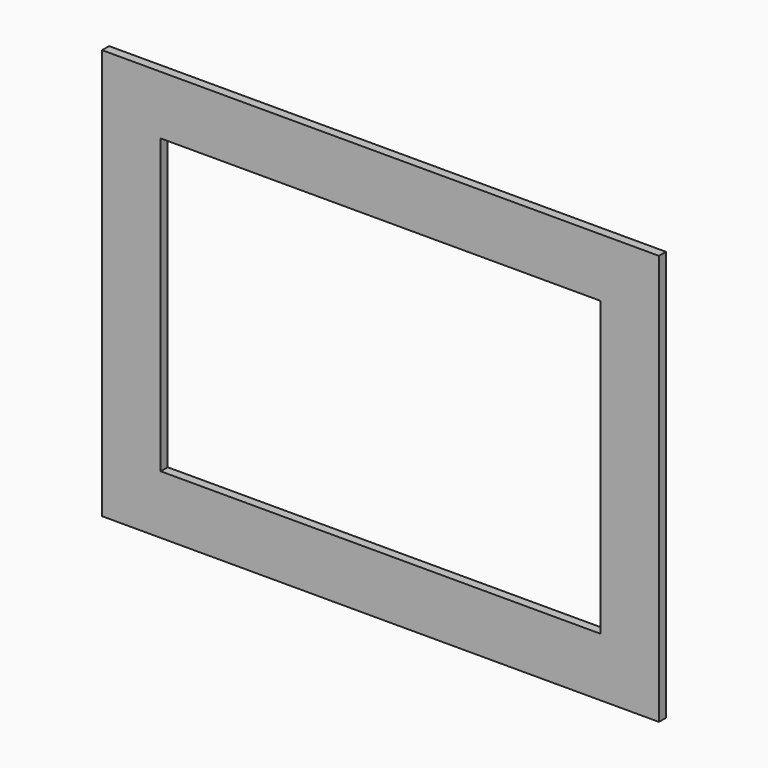
from build123d import *

# Parameters (mm, degrees)
F1_DEPTH = 3


with BuildPart() as f1:
    # F0 (on Front) → F1 (new body)
    with BuildSketch(Plane.XZ):
        Polygon((-75, 50), (-95, 70), (-95, -70), (-75, -50), align=None)
        Polygon((95, 70), (-95, 70), (-75, 50), (75, 50), align=None)
        Polygon((95, -70), (95, 70), (75, 50), (75, -50), align=None)
        Polygon((-75, -50), (-95, -70), (95, -70), (75, -50), align=None)
    extrude(amount=F1_DEPTH)


solid = f1.part
